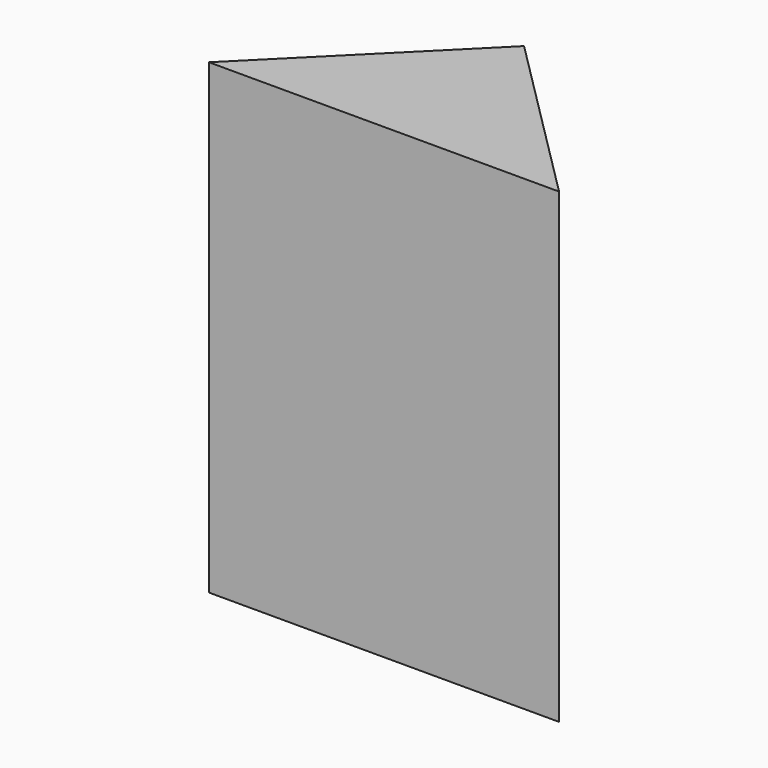
from build123d import *

# Parameters (mm, degrees)
EXTRUDE_DEPTH = 20


with BuildPart() as part:
    # Sketch → Extrude (new body, symmetric)
    with BuildSketch(Plane.XY):
        Polygon((-15, 0), (0, 15), (15, 0), align=None)
    extrude(amount=EXTRUDE_DEPTH, both=True)


solid = part.part
